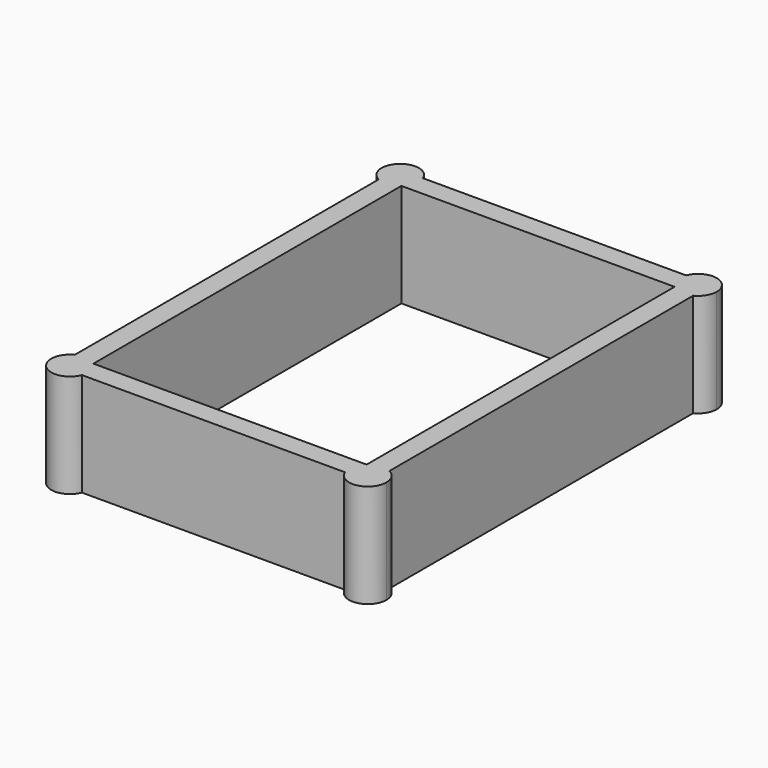
from build123d import *

# Parameters (mm, degrees)
F1_DEPTH = 25


with BuildPart() as f1:
    # F0 (on Top) → F1 (new body)
    with BuildSketch(Plane.XY):
        with BuildLine():
            ThreePointArc((-31.476978, 49.874552), (-31.875369, 48.02339), (-33, 46.5))
            Line((-33, 46.5), (33, 46.5))
            ThreePointArc((33, 46.5), (31.605074, 48.808506), (31.780799, 51.5))
            Line((31.780799, 51.5), (-31.780799, 51.5))
            ThreePointArc((-31.780799, 51.5), (-31.553586, 50.701351), (-31.476978, 49.874552))
        make_face()
        with BuildLine():
            ThreePointArc((-38, 45.854927), (-35.401185, 45.411541), (-33, 46.5))
            ThreePointArc((-33, 46.5), (-31.875369, 48.02339), (-31.476978, 49.874552))
            ThreePointArc((-31.476978, 49.874552), (-31.553586, 50.701351), (-31.780799, 51.5))
            Line((-31.780799, 51.5), (-38, 51.5))
            Line((-38, 51.5), (-38, 45.854927))
        make_face()
        with BuildLine():
            ThreePointArc((-31.780799, 51.5), (-39.00144, 53.206613), (-38, 45.854927))
            Line((-38, 45.854927), (-38, 51.5))
            Line((-38, 51.5), (-31.780799, 51.5))
        make_face()
        with BuildLine():
            Line((-33, -46.5), (-33, 46.5))
            ThreePointArc((-33, 46.5), (-35.401185, 45.411541), (-38, 45.854927))
            Line((-38, 45.854927), (-38, -45.854927))
            ThreePointArc((-38, -45.854927), (-35.401185, -45.411541), (-33, -46.5))
        make_face()
        with BuildLine():
            ThreePointArc((40.476978, 49.874552), (36.803778, 54.297944), (31.780799, 51.5))
            Line((31.780799, 51.5), (38, 51.5))
            Line((38, 51.5), (38, 45.854927))
            ThreePointArc((38, 45.854927), (39.808009, 47.513789), (40.476978, 49.874552))
        make_face()
        with BuildLine():
            ThreePointArc((31.780799, 51.5), (31.605074, 48.808506), (33, 46.5))
            ThreePointArc((33, 46.5), (35.401185, 45.411541), (38, 45.854927))
            Line((38, 45.854927), (38, 51.5))
            Line((38, 51.5), (31.780799, 51.5))
        make_face()
        with BuildLine():
            ThreePointArc((38, 45.854927), (35.401185, 45.411541), (33, 46.5))
            Line((33, 46.5), (33, -46.5))
            ThreePointArc((33, -46.5), (35.401185, -45.411541), (38, -45.854927))
            Line((38, -45.854927), (38, 45.854927))
        make_face()
        with BuildLine():
            ThreePointArc((40.476978, -49.874552), (39.808009, -47.513789), (38, -45.854927))
            Line((38, -45.854927), (38, -51.5))
            Line((38, -51.5), (31.780799, -51.5))
            ThreePointArc((31.780799, -51.5), (36.803778, -54.297944), (40.476978, -49.874552))
        make_face()
        with BuildLine():
            ThreePointArc((38, -45.854927), (35.401185, -45.411541), (33, -46.5))
            ThreePointArc((33, -46.5), (31.605074, -48.808506), (31.780799, -51.5))
            Line((31.780799, -51.5), (38, -51.5))
            Line((38, -51.5), (38, -45.854927))
        make_face()
        with BuildLine():
            Line((33, -46.5), (-33, -46.5))
            ThreePointArc((-33, -46.5), (-31.875369, -48.02339), (-31.476978, -49.874552))
            ThreePointArc((-31.476978, -49.874552), (-31.553586, -50.701351), (-31.780799, -51.5))
            Line((-31.780799, -51.5), (31.780799, -51.5))
            ThreePointArc((31.780799, -51.5), (31.605074, -48.808506), (33, -46.5))
        make_face()
        with BuildLine():
            ThreePointArc((-31.476978, -49.874552), (-31.875369, -48.02339), (-33, -46.5))
            ThreePointArc((-33, -46.5), (-35.401185, -45.411541), (-38, -45.854927))
            Line((-38, -45.854927), (-38, -51.5))
            Line((-38, -51.5), (-31.780799, -51.5))
            ThreePointArc((-31.780799, -51.5), (-31.553586, -50.701351), (-31.476978, -49.874552))
        make_face()
        with BuildLine():
            Line((-38, -51.5), (-38, -45.854927))
            ThreePointArc((-38, -45.854927), (-39.00144, -53.206613), (-31.780799, -51.5))
            Line((-31.780799, -51.5), (-38, -51.5))
        make_face()
    extrude(amount=F1_DEPTH)


solid = f1.part
